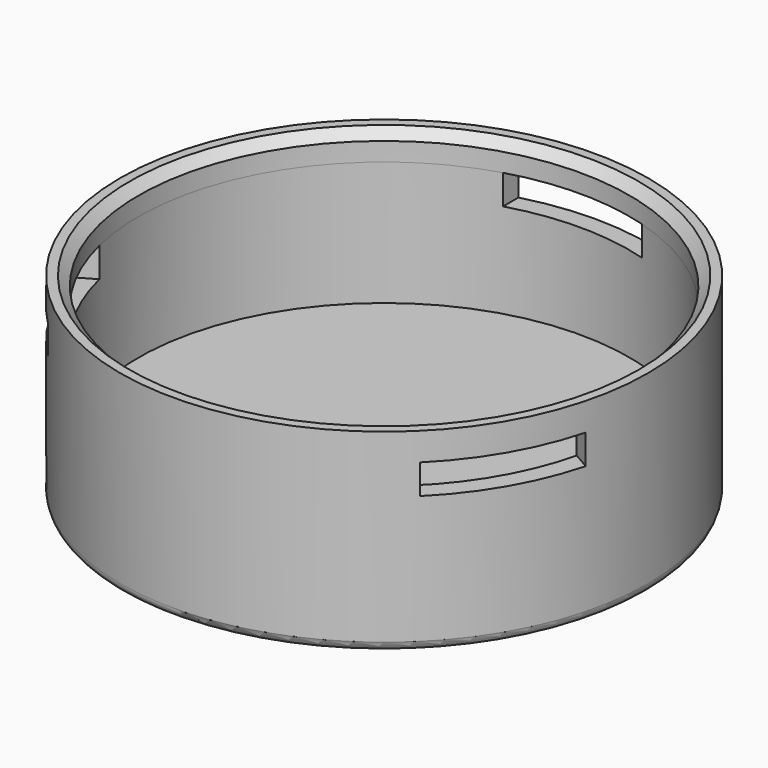
from build123d import *

# Parameters (mm, degrees)
F0_R     = 14.25
F1_DEPTH = 9
F2_R     = 13.25
F3_DEPTH = 6.7
F4_R     = 0.5
F5_W     = 7.5
F5_H     = 3.293012
F6_DEPTH = 1.6
F7_R     = 14.25
F7_R_2   = 13.25
F8_DEPTH = 1.5
F9_SIZE  = 0.5


with BuildPart() as f1:
    # F0 (on Top) → F1 (new body)
    with BuildSketch(Plane.XY):
        Circle(F0_R)
    extrude(amount=F1_DEPTH)

    # F2 (on face) → F3 (cut)
    with BuildSketch(Plane.XY.offset(9)):
        Circle(F2_R)
    extrude(amount=-F3_DEPTH, mode=Mode.SUBTRACT)

    # F4
    f4_edges = [f1.edges().sort_by_distance(p)[0] for p in [
        (-14.25, 0, 0),
    ]]
    fillet(f4_edges, radius=F4_R)

    # F5 (on face) → F6 (cut)
    with BuildSketch(Plane.XY.offset(9)):
        with Locations((0, 13.296265)):
            Rectangle(F5_W, F5_H)
        Polygon((-14.815819, -4.22379), (-11.065819, -10.718981), (-8.213987, -9.072475), (-11.963987, -2.577284), align=None)
        Polygon((11.065819, -10.718981), (14.815819, -4.22379), (11.963987, -2.577284), (8.213987, -9.072475), align=None)
    extrude(amount=-F6_DEPTH, mode=Mode.SUBTRACT)

    # F7 (on face) → F8 (join)
    with BuildSketch(Plane.XY.offset(9)):
        Circle(F7_R)
        Circle(F7_R_2, mode=Mode.SUBTRACT)
    extrude(amount=F8_DEPTH)

    # F9
    f9_edges = [f1.edges().sort_by_distance(p)[0] for p in [
        (-13.25, 0, 10.5),
    ]]
    chamfer(f9_edges, length=F9_SIZE)


solid = f1.part
